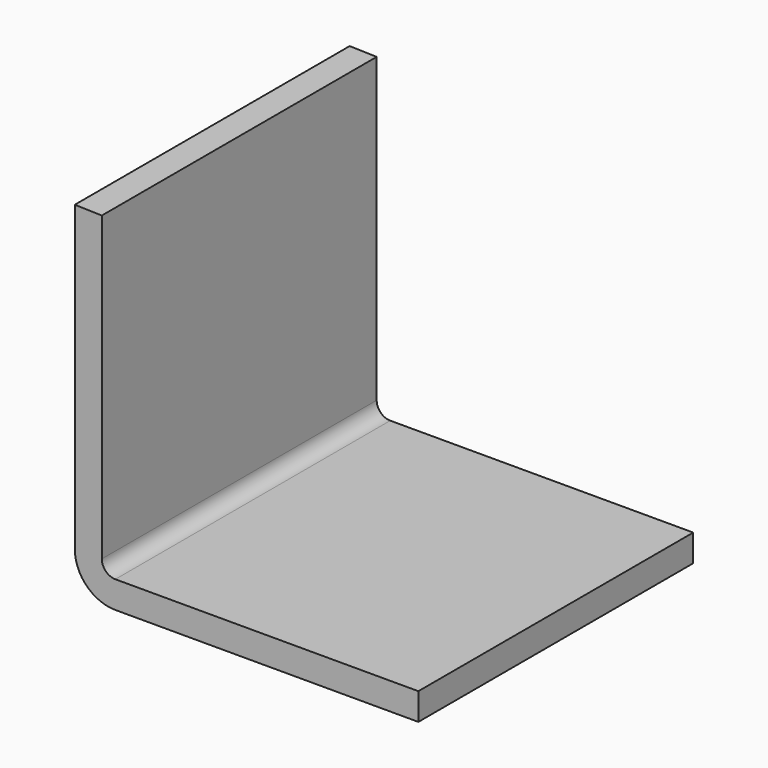
from build123d import *

# Parameters (mm, degrees)
F1_DEPTH = 25.4


with BuildPart() as f1:
    # F0 (on Front) → F1 (new body)
    with BuildSketch(Plane.XZ):
        with BuildLine():
            Line((0, 25.4), (0, 3))
            ThreePointArc((0, 3), (0.87868, 0.87868), (3, 0))
            Line((3, 0), (25.4, 0))
            Line((25.4, 0), (25.4, 2))
            Line((25.4, 2), (2.999346, 2))
            ThreePointArc((2.999346, 2), (2.292239, 2.292893), (1.999346, 3))
            Line((1.999346, 3), (1.999346, 25.34885))
            Line((1.999346, 25.34885), (0, 25.4))
        make_face()
    extrude(amount=F1_DEPTH)


solid = f1.part
